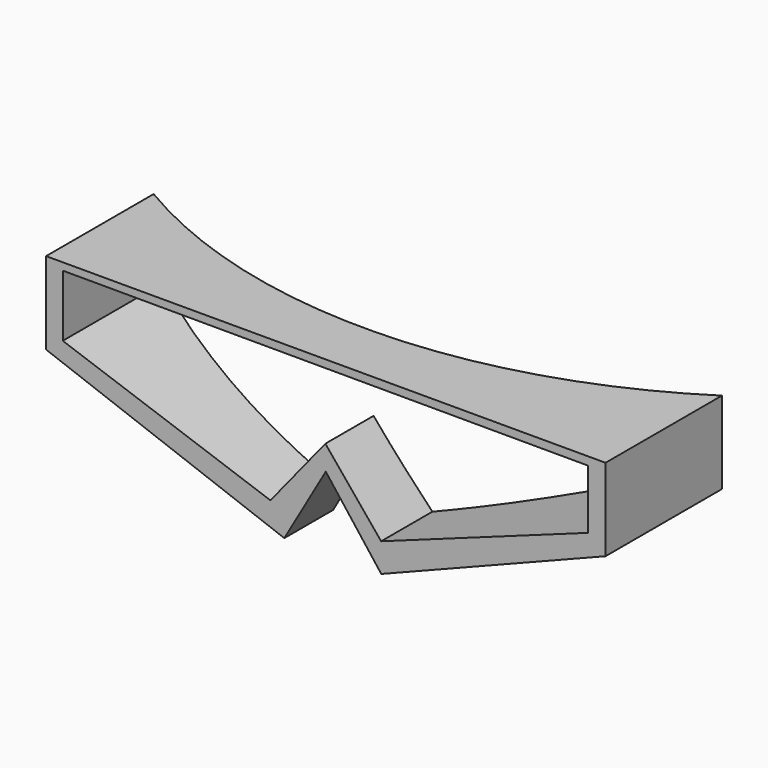
from build123d import *

# Parameters (mm, degrees)
F1_DEPTH = 146
F3_DEPTH = 60
F5_DEPTH = 500


with BuildPart() as f1:
    # F0 (on Front) → F1 (new body)
    with BuildSketch(Plane.XZ):
        Polygon((-3.734913, 26.905388), (-3.734913, 51.905388), (-88.734913, 51.905388), (-173.734913, 51.905388), (-173.734913, 26.905388), (-101.347528, 0), (-88.734913, 21.905388), (-71.878783, 0), align=None)
    extrude(amount=F1_DEPTH)

    # F2 (on face) → F3 (cut)
    with BuildSketch(Plane.XY.offset(51.905388)):
        with BuildLine():
            Line((-173.734913, 0), (-173.734913, -105.142423))
            ThreePointArc((-173.734913, -105.142423), (-88.257826, -127.680535), (-3.734913, -101.792774))
            Line((-3.734913, -101.792774), (-3.734913, 0))
            Line((-3.734913, 0), (-173.734913, 0))
        make_face()
    extrude(amount=-F3_DEPTH, mode=Mode.SUBTRACT)

    # F4 (on face) → F5 (cut)
    with BuildSketch(Plane.XZ.offset(146)):
        Polygon((-9.079793, 49.414322), (-168.665886, 49.675085), (-168.665886, 30.900249), (-105.561584, 8.735513), (-88.872842, 29.335679), (-71.923338, 8.735513), (-9.079793, 31.421773), align=None)
    extrude(amount=-F5_DEPTH, mode=Mode.SUBTRACT)


solid = f1.part
